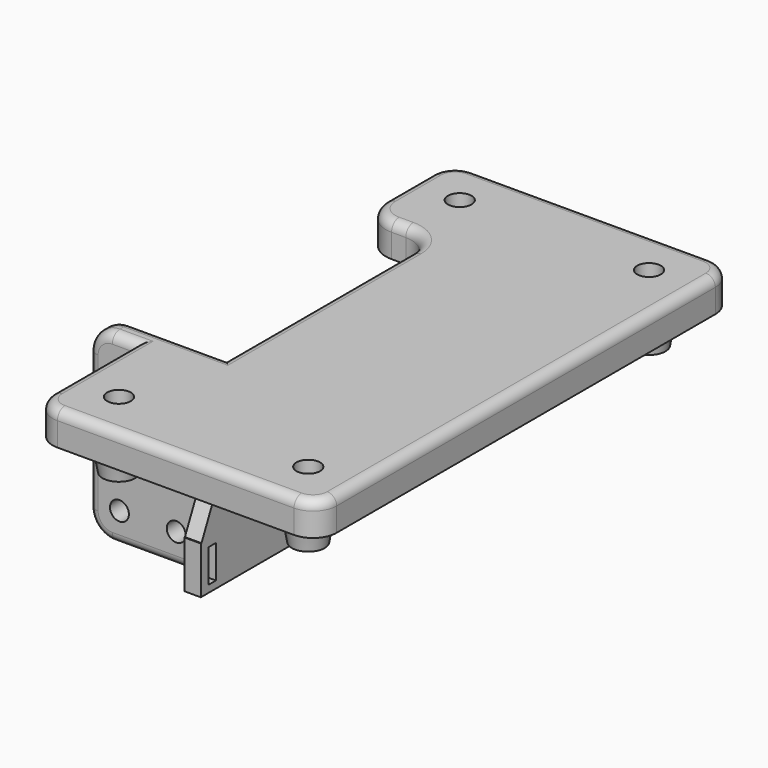
from build123d import *

# Parameters (mm, degrees)
SKETCH_W           = 60
SKETCH_H           = 110
SKETCH_R           = 2.5
PAD_DEPTH          = 7
FILLET_R           = 5
SKETCH001_R        = 4
SKETCH001_R_2      = 2.5
PAD001_DEPTH       = 7
CHAMFER_1_ANGLE    = 10
CHAMFER_1_SIZE     = 3
CHAMFER_2_ANGLE    = 10
CHAMFER_2_SIZE     = 3
CHAMFER_3_ANGLE    = 10
CHAMFER_3_SIZE     = 3
CHAMFER_4_ANGLE    = 10
CHAMFER_4_SIZE     = 3
SKETCH002_R        = 2
PAD002_DEPTH       = 5
SKETCH003_W        = 47
SKETCH003_H        = 32
PAD003_DEPTH       = 3.5
SKETCH004_W        = 3.5
SKETCH004_H        = 10
PAD004_DEPTH       = 6
SKETCH005_W        = 3.5
SKETCH005_H        = 10
PAD005_DEPTH       = 6
SKETCH006_W        = 2
SKETCH006_H        = 7
POCKET_DEPTH       = 28.501
CHAMFER001_1_ANGLE = 25
CHAMFER001_1_SIZE  = 12.5
CHAMFER001_2_ANGLE = 25
CHAMFER001_2_SIZE  = 12.5
SKETCH007_W        = 15
SKETCH007_H        = 55
POCKET001_DEPTH    = 7.001
FILLET001_R        = 6
FILLET002_R        = 5
FILLET003_R        = 2
FILLET004_R        = 2
FILLET005_R        = 2
FILLET006_R        = 2


with BuildPart() as part:
    # Sketch → Pad (new body)
    with BuildSketch(Plane.XY):
        Rectangle(SKETCH_W, SKETCH_H)
        with Locations((-20, 45)):
            Circle(SKETCH_R, mode=Mode.SUBTRACT)
        with Locations((20, 45)):
            Circle(SKETCH_R, mode=Mode.SUBTRACT)
        with Locations((-20, -45)):
            Circle(SKETCH_R, mode=Mode.SUBTRACT)
        with Locations((20, -45)):
            Circle(SKETCH_R, mode=Mode.SUBTRACT)
    extrude(amount=PAD_DEPTH)

    # Fillet
    fillet_edges = [part.edges().sort_by_distance(p)[0] for p in [
        (30, -55, 3.5),
        (-30, -55, 3.5),
        (30, 55, 3.5),
        (-30, 55, 3.5),
    ]]
    fillet(fillet_edges, radius=FILLET_R)

    # Sketch001 → Pad001 (join)
    with BuildSketch(Plane.XY):
        with Locations((20, 45)):
            Circle(SKETCH001_R)
        with Locations((20, 45)):
            Circle(SKETCH001_R_2, mode=Mode.SUBTRACT)
        with Locations((-20, 45)):
            Circle(SKETCH001_R)
        with Locations((-20, 45)):
            Circle(SKETCH001_R_2, mode=Mode.SUBTRACT)
        with Locations((20, -45)):
            Circle(SKETCH001_R)
        with Locations((20, -45)):
            Circle(SKETCH001_R_2, mode=Mode.SUBTRACT)
        with Locations((-20, -45)):
            Circle(SKETCH001_R)
        with Locations((-20, -45)):
            Circle(SKETCH001_R_2, mode=Mode.SUBTRACT)
    extrude(amount=-PAD001_DEPTH)

    # Chamfer 1
    chamfer_1_edges = [part.edges().sort_by_distance(p)[0] for p in [
        (-24, 45, -7),
    ]]
    chamfer_1_side = part.faces().sort_by_distance((-24, 45, -3.5))[0]
    chamfer(chamfer_1_edges, length=CHAMFER_1_SIZE, angle=CHAMFER_1_ANGLE, reference=chamfer_1_side)

    # Chamfer 2
    chamfer_2_edges = [part.edges().sort_by_distance(p)[0] for p in [
        (16, 45, -7),
    ]]
    chamfer_2_side = part.faces().sort_by_distance((16, 45, -3.5))[0]
    chamfer(chamfer_2_edges, length=CHAMFER_2_SIZE, angle=CHAMFER_2_ANGLE, reference=chamfer_2_side)

    # Chamfer 3
    chamfer_3_edges = [part.edges().sort_by_distance(p)[0] for p in [
        (-24, -45, -7),
    ]]
    chamfer_3_side = part.faces().sort_by_distance((-24, -45, -3.5))[0]
    chamfer(chamfer_3_edges, length=CHAMFER_3_SIZE, angle=CHAMFER_3_ANGLE, reference=chamfer_3_side)

    # Chamfer 4
    chamfer_4_edges = [part.edges().sort_by_distance(p)[0] for p in [
        (16, -45, -7),
    ]]
    chamfer_4_side = part.faces().sort_by_distance((16, -45, -3.5))[0]
    chamfer(chamfer_4_edges, length=CHAMFER_4_SIZE, angle=CHAMFER_4_ANGLE, reference=chamfer_4_side)

    # Sketch002 (on DatumPlane) → Pad002 (join)
    with BuildSketch(Plane.XZ.offset(23)):
        Polygon((-15, 0), (-30, 0), (-30, 7), (-40, 7), (-40, 0), (-40, -32), (-15, -32), align=None)
        with Locations((-33.5, -7.5)):
            Circle(SKETCH002_R, mode=Mode.SUBTRACT)
        with Locations((-21.5, -7.5)):
            Circle(SKETCH002_R, mode=Mode.SUBTRACT)
        with Locations((-33.5, -25.5)):
            Circle(SKETCH002_R, mode=Mode.SUBTRACT)
        with Locations((-21.5, -25.5)):
            Circle(SKETCH002_R, mode=Mode.SUBTRACT)
    extrude(amount=PAD002_DEPTH)

    # Sketch003 → Pad003 (join)
    with BuildSketch(Plane.YZ.offset(-15)):
        with Locations((-4.5, -16)):
            Rectangle(SKETCH003_W, SKETCH003_H)
    extrude(amount=PAD003_DEPTH)

    # Sketch004 → Pad004 (join)
    with BuildSketch(Plane.XZ.offset(28)):
        with Locations((-13.25, -27)):
            Rectangle(SKETCH004_W, SKETCH004_H)
    extrude(amount=PAD004_DEPTH)

    # Sketch005 (on Face15 of Pad004) → Pad005 (join)
    with BuildSketch(Plane(origin=(0, 19, 0), x_dir=(-1, 0, 0), z_dir=(0, 1, 0))):
        with Locations((13.25, -27)):
            Rectangle(SKETCH005_W, SKETCH005_H)
    extrude(amount=PAD005_DEPTH)

    # Sketch006 (on Face14 of Pad005) → Pocket (cut, through all)
    with BuildSketch(Plane.YZ.offset(-11.5)):
        with Locations((-31, -27)):
            Rectangle(SKETCH006_W, SKETCH006_H)
        with Locations((22, -27)):
            Rectangle(SKETCH006_W, SKETCH006_H)
    extrude(amount=-POCKET_DEPTH, mode=Mode.SUBTRACT)

    # Chamfer001 1
    chamfer001_1_edges = [part.edges().sort_by_distance(p)[0] for p in [
        (-13.25, -28, -22),
    ]]
    chamfer001_1_side = part.faces().sort_by_distance((-13.25, -28, -11))[0]
    chamfer(chamfer001_1_edges, length=CHAMFER001_1_SIZE, angle=CHAMFER001_1_ANGLE, reference=chamfer001_1_side)

    # Chamfer001 2
    chamfer001_2_edges = [part.edges().sort_by_distance(p)[0] for p in [
        (-13.25, 19, -22),
    ]]
    chamfer001_2_side = part.faces().sort_by_distance((-13.25, 19, -11))[0]
    chamfer(chamfer001_2_edges, length=CHAMFER001_2_SIZE, angle=CHAMFER001_2_ANGLE, reference=chamfer001_2_side)

    # Sketch007 (on Face4 of Chamfer001) → Pocket001 (cut, through all)
    with BuildSketch(Plane(origin=(0, 0, 0), x_dir=(1, 0, 0), z_dir=(0, 0, -1))):
        with Locations((-22.5, -4.5)):
            Rectangle(SKETCH007_W, SKETCH007_H)
    extrude(amount=-POCKET001_DEPTH, mode=Mode.SUBTRACT)

    # Fillet001
    fillet001_edges = [part.edges().sort_by_distance(p)[0] for p in [
        (-30, 32, 3.5),
        (-15, 32, 3.5),
    ]]
    fillet(fillet001_edges, radius=FILLET001_R)

    # Fillet002
    fillet002_edges = [part.edges().sort_by_distance(p)[0] for p in [
        (-40, -25.5, -32),
        (-40, -25.5, 7),
    ]]
    fillet(fillet002_edges, radius=FILLET002_R)

    # Fillet003
    fillet003_edges = [part.edges().sort_by_distance(p)[0] for p in [
        (-22.5, -28, 0),
        (-11.5, -4.5, 0),
        (-13.25, 19, 0),
    ]]
    fillet(fillet003_edges, radius=FILLET003_R)

    # Fillet004
    fillet004_edges = [part.edges().sort_by_distance(p)[0] for p in [
        (-40, -28, -13.5),
        (-40, -25.5, -27),
        (-40, -25.5, 0),
        (-40, -23, -13.5),
    ]]
    fillet(fillet004_edges, radius=FILLET004_R)

    # Fillet005
    fillet005_edges = [part.edges().sort_by_distance(p)[0] for p in [
        (-30, -39, 7),
        (0, -55, 7),
        (30, 0, 7),
        (0, 55, 7),
        (-30, 44, 7),
    ]]
    fillet(fillet005_edges, radius=FILLET005_R)

    # Fillet006
    fillet006_edges = [part.edges().sort_by_distance(p)[0] for p in [
        (16, -45, 0),
        (-24, -45, 0),
        (16, 45, 0),
        (-24, 45, 0),
    ]]
    fillet(fillet006_edges, radius=FILLET006_R)


solid = part.part
